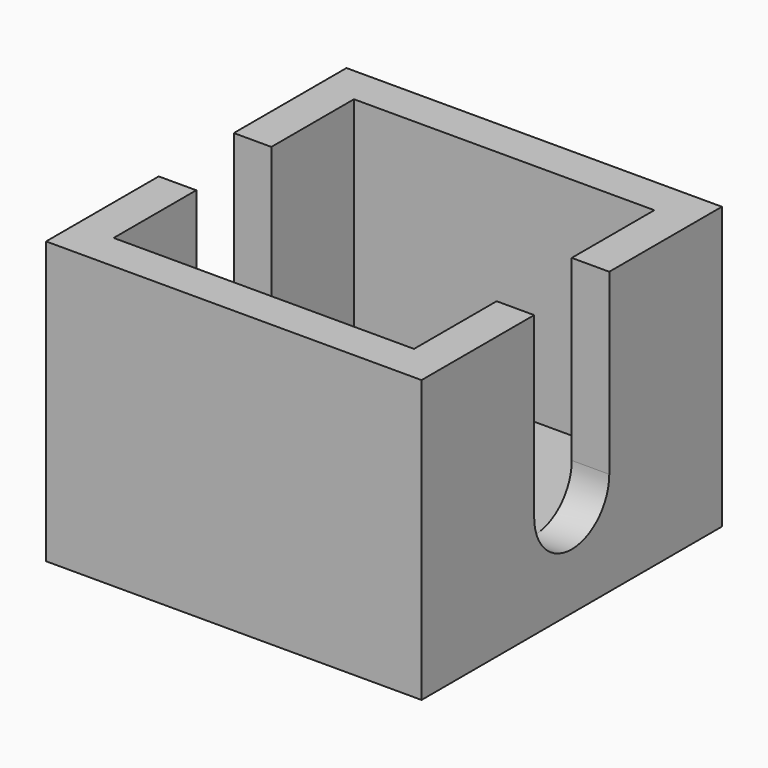
from build123d import *

# Parameters (mm, degrees)
SKETCH_W        = 20
SKETCH_H        = 20
PAD_DEPTH       = 15
SKETCH001_W     = 16
SKETCH001_H     = 16
POCKET_DEPTH    = 12
POCKET001_DEPTH = 20


with BuildPart() as part:
    # Sketch → Pad (new body)
    with BuildSketch(Plane.XY):
        with Locations((10, 10)):
            Rectangle(SKETCH_W, SKETCH_H)
    extrude(amount=PAD_DEPTH)

    # Sketch001 (on Face6 of Pad) → Pocket (cut)
    with BuildSketch(Plane.XY.offset(15)):
        with Locations((10, 10)):
            Rectangle(SKETCH001_W, SKETCH001_H)
    extrude(amount=-POCKET_DEPTH, mode=Mode.SUBTRACT)

    # Sketch002 (on Face3 of Pocket) → Pocket001 (cut)
    with BuildSketch(Plane.YZ.offset(20)):
        with BuildLine():
            ThreePointArc((12.5, 15.5), (10, 18), (7.5, 15.5))
            Line((7.5, 15.5), (7.5, 5.5))
            ThreePointArc((7.5, 5.5), (10, 3), (12.5, 5.5))
            Line((12.5, 5.5), (12.5, 15.5))
        make_face()
    extrude(amount=-POCKET001_DEPTH, mode=Mode.SUBTRACT)


solid = part.part
